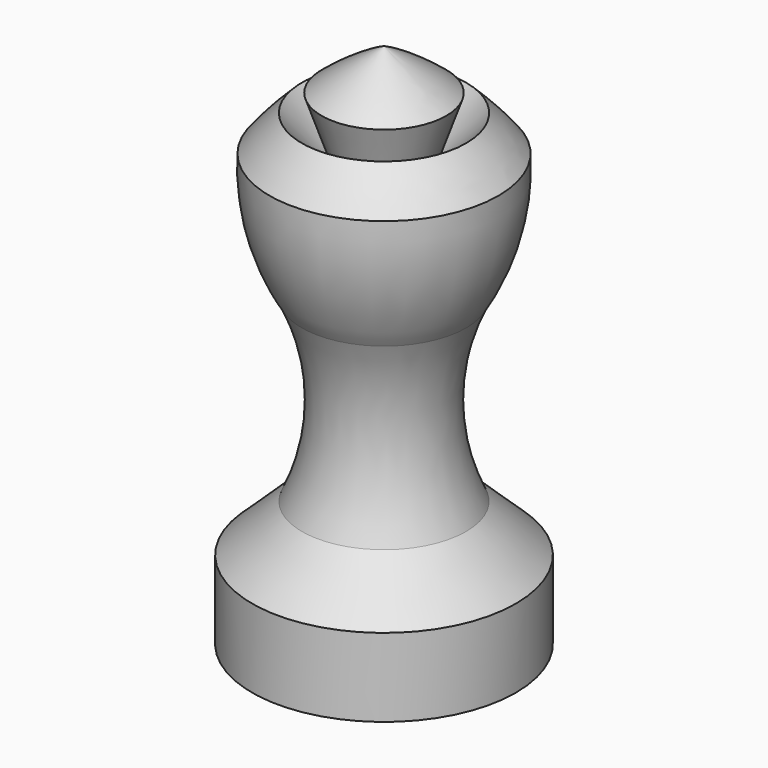
from build123d import *


with BuildPart() as f1:
    # F0 (on Front) → F1 (revolve)
    with BuildSketch(Plane.XZ):
        with BuildLine():
            ThreePointArc((10.1356245577, 37.6246646047), (13.3272956222, 45.1520650335), (14.128446579, 53.2888136804))
            ThreePointArc((14.128446579, 53.2888136804), (12.2078947119, 55.5624464713), (10.1356245577, 57.6987100202))
            Line((10.1356245577, 57.6987100202), (4.9142432399, 51.845254764))
            Line((4.9142432399, 51.845254764), (7.6890488201, 59.8808432291))
            ThreePointArc((7.6890488201, 59.8808432291), (3.9800972298, 62.6257206248), (0, 64.9601370096))
            Line((0, 64.9601370096), (0, 0))
            Line((0, 0), (16.2784270942, 0))
            Line((16.2784270942, 0), (16.2784270942, 9.6749141812))
            Line((16.2784270942, 9.6749141812), (10.1356245577, 15.5105758458))
            ThreePointArc((10.1356245577, 15.5105758458), (7.6325309522, 26.5676202253), (10.1356245577, 37.6246646047))
        make_face()
    revolve(axis=Axis((0, 0, 32.4800685048), (0, 0, 1)))


solid = f1.part
